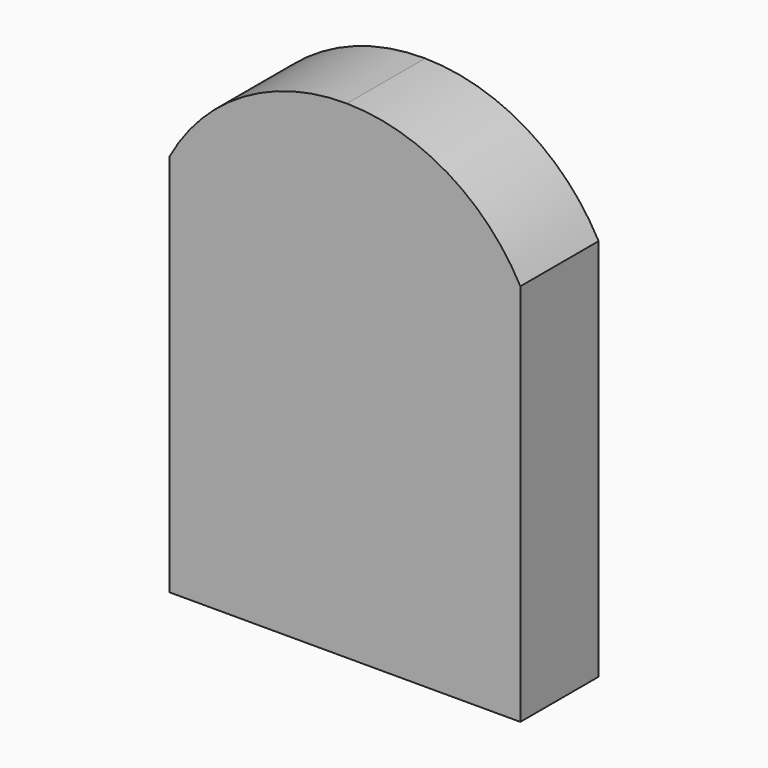
from build123d import *

# Parameters (mm, degrees)
F1_DEPTH = 25.4


with BuildPart() as f1:
    # F0 (on Front) → F1 (new body)
    with BuildSketch(Plane.XZ):
        with BuildLine():
            Line((-46.08576, 43.39835), (-46.08576, -56.204099))
            Line((-46.08576, -56.204099), (45.061633, -56.204099))
            Line((45.061633, -56.204099), (45.061633, 43.39835))
            ThreePointArc((45.061633, 43.39835), (26.22991, 63.110386), (0, 70.539378))
            ThreePointArc((0, 70.539378), (-26.814089, 63.372418), (-46.08576, 43.39835))
        make_face()
    extrude(amount=F1_DEPTH)


solid = f1.part
